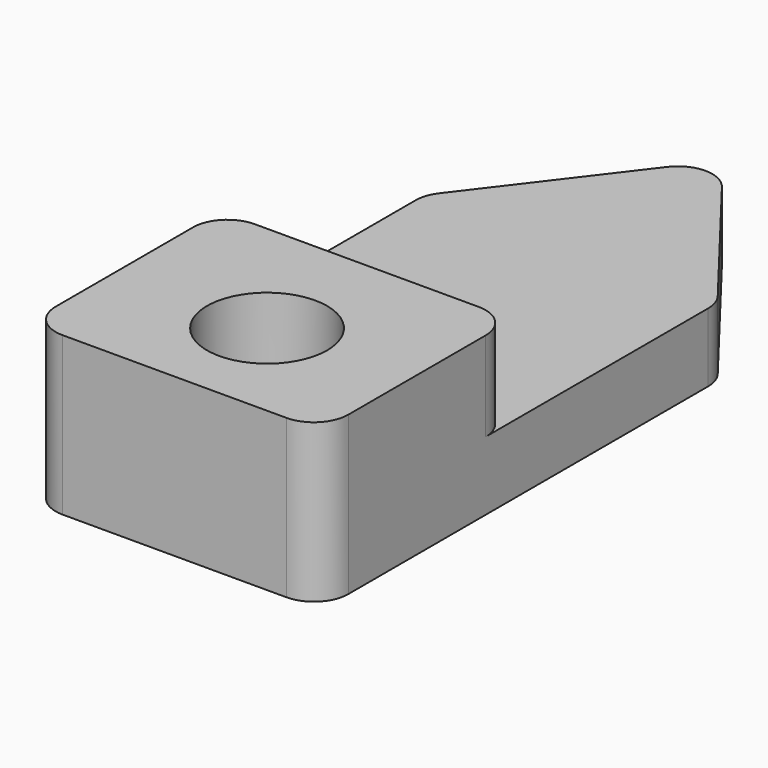
from build123d import *

# Parameters (mm, degrees)
F0_R     = 1.75
F1_DEPTH = 4.6
F2_DEPTH = 2
F3_R     = 1
F4_R     = 1
F5_R     = 1
F6_R     = 1


with BuildPart() as f1:
    # F0 (on Top) → F1 (new body)
    with BuildSketch(Plane.XY):
        Polygon((-17.207691, -2.142988), (-17.207691, -9.142705), (-8.686733, -9.142705), (-8.686733, -2.142988), (-16.240229, -2.142988), align=None)
        with Locations((-12.791907, -5.968139)):
            Circle(F0_R, mode=Mode.SUBTRACT)
    extrude(amount=F1_DEPTH)

    # F0 (on Top) → F2 (join)
    with BuildSketch(Plane.XY):
        Polygon((-17.207691, 5.29756), (-17.207691, -2.142988), (-16.240229, -2.142988), (-8.686733, -2.142988), (-8.686733, 5.29756), (-12.975041, 10.857295), align=None)
    extrude(amount=F2_DEPTH)

    # F3
    f3_edges = [f1.edges().sort_by_distance(p)[0] for p in [
        (-8.686733, -9.142705, 2.3),
    ]]
    fillet(f3_edges, radius=F3_R)

    # F4
    f4_edges = [f1.edges().sort_by_distance(p)[0] for p in [
        (-17.207691, -9.142705, 2.3),
    ]]
    fillet(f4_edges, radius=F4_R)

    # F5
    f5_edges = [f1.edges().sort_by_distance(p)[0] for p in [
        (-17.207691, -2.142988, 3.3),
    ]]
    fillet(f5_edges, radius=F5_R)

    # F6
    f6_edges = [f1.edges().sort_by_distance(p)[0] for p in [
        (-8.686733, -2.142988, 3.3),
        (-12.975041, 10.857295, 1),
        (-8.686733, 5.29756, 1),
        (-17.207691, 5.29756, 1),
    ]]
    fillet(f6_edges, radius=F6_R)


solid = f1.part
